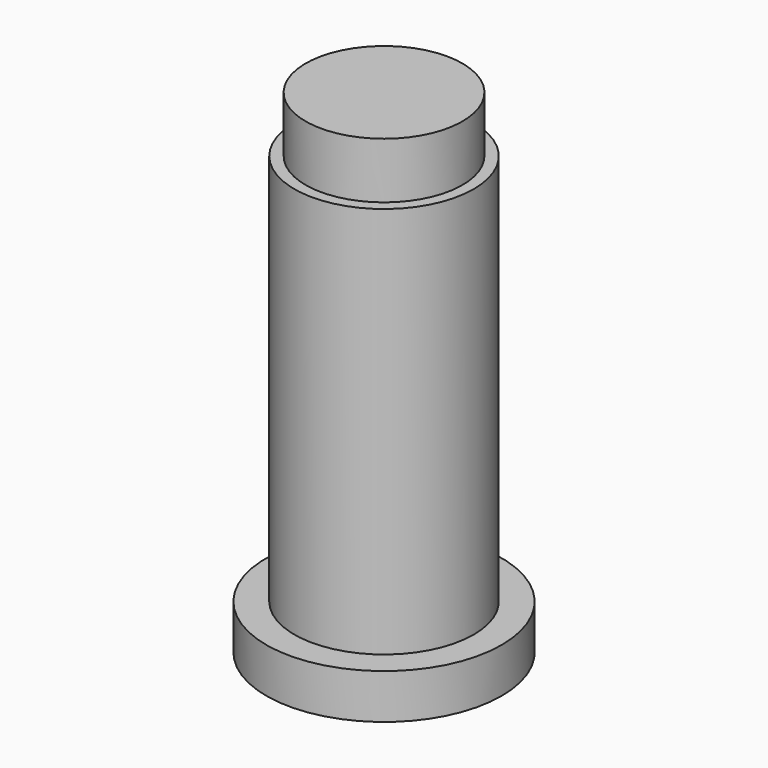
from build123d import *

# Parameters (mm, degrees)
F0_R     = 10.5
F1_DEPTH = 4
F2_R     = 8
F3_DEPTH = 39
F4_W     = 7
F4_H     = 5
F6_R     = 1.5
F7_DEPTH = 39


with BuildPart() as f1:
    # F0 (on Top) → F1 (new body)
    with BuildSketch(Plane.XY):
        Circle(F0_R)
    extrude(amount=F1_DEPTH)

    # F2 (on Top) → F3 (join)
    with BuildSketch(Plane.XY):
        Circle(F2_R)
    extrude(amount=F3_DEPTH)

    # F4 (on Right) → F5 (revolve)
    with BuildSketch(Plane.YZ):
        with Locations((3.5, 41.5)):
            Rectangle(F4_W, F4_H)
    revolve(axis=Axis((0, 0, 41.5), (0, 0, -1)))

    # F6 (on face) → F7 (cut)
    with BuildSketch(Plane(origin=(0, 0, 0), x_dir=(1, 0, 0), z_dir=(0, 0, -1))):
        Circle(F6_R)
    extrude(amount=-F7_DEPTH, mode=Mode.SUBTRACT)


solid = f1.part
